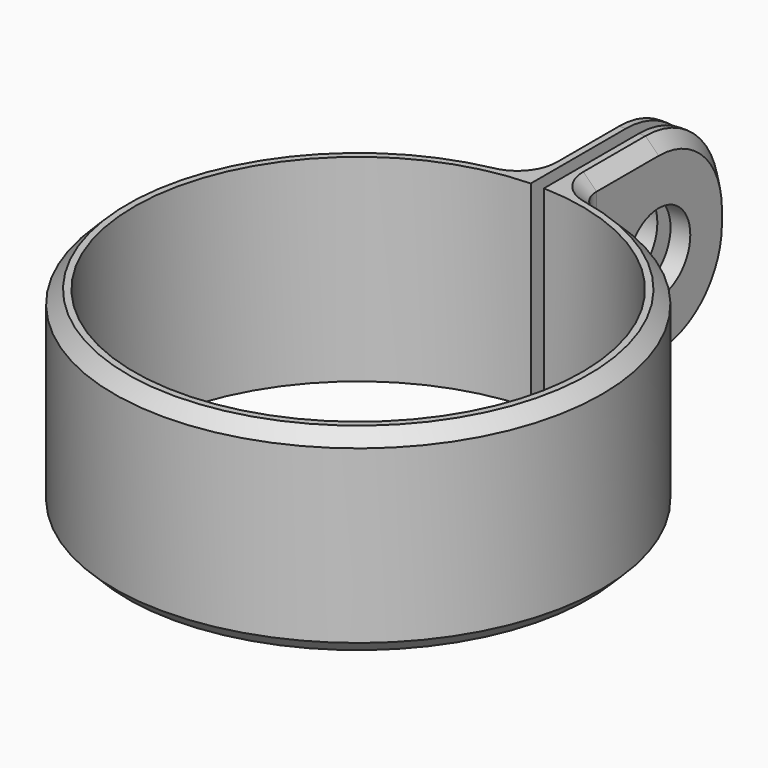
from build123d import *

# Parameters (mm, degrees)
F1_DEPTH = 15
F2_R     = 7
F3_R     = 3
F4_DEPTH = 25
F5_SIZE2 = 1
F5_SIZE  = 1


with BuildPart() as f1:
    # F0 (on Top) → F1 (new body)
    with BuildSketch(Plane.XY):
        with BuildLine():
            ThreePointArc((-2, 20.105969), (-2.453959, 18.837208), (-3.609756, 18.144411))
            ThreePointArc((-3.609756, 18.144411), (0, -18.5), (3.609756, 18.144411))
            ThreePointArc((3.609756, 18.144411), (2.453959, 18.837208), (2, 20.105969))
            Line((2, 20.105969), (2, 33))
            Line((2, 33), (0.5, 33))
            Line((0.5, 33), (0.5, 16.992645))
            ThreePointArc((0.5, 16.992645), (0, -17), (-0.5, 16.992645))
            Line((-0.5, 16.992645), (-0.5, 33))
            Line((-0.5, 33), (-2, 33))
            Line((-2, 33), (-2, 20.105969))
        make_face()
    extrude(amount=F1_DEPTH)

    # F2
    f2_edges = [f1.edges().sort_by_distance(p)[0] for p in [
        (1.25, 33, 15),
        (-1.25, 33, 15),
        (1.25, 33, 0),
        (-1.25, 33, 0),
    ]]
    fillet(f2_edges, radius=F2_R)

    # F3 (on face) → F4 (cut)
    with BuildSketch(Plane.YZ.offset(2)):
        with Locations((26, 7.5)):
            Circle(F3_R)
    extrude(amount=-F4_DEPTH, mode=Mode.SUBTRACT)

    # F5
    f5_edges = [f1.edges().sort_by_distance(p)[0] for p in [
        (2, 23.052985, 15),
    ]]
    chamfer(f5_edges, length=F5_SIZE, length2=F5_SIZE2)


solid = f1.part
